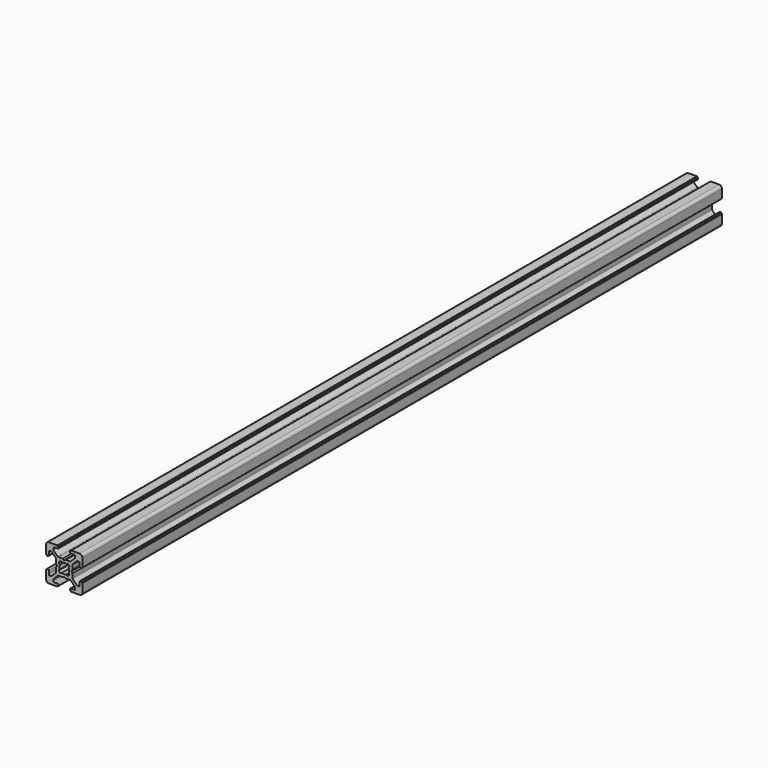
from build123d import *

# Parameters (mm, degrees)
F2_DEPTH = 440


with BuildPart() as f2:
    # F1 (on Front) → F2 (new body)
    with BuildSketch(Plane.XZ):
        with BuildLine():
            ThreePointArc((10, 8.5), (9.5606601718, 9.5606601718), (8.5, 10))
            Line((8.5, 10), (3.8500002275, 10))
            ThreePointArc((3.8500002275, 10), (3.7085788712, 9.9414213562), (3.6500002275, 9.8))
            Line((3.6500002275, 9.8), (3.6500002275, 9.5))
            Line((3.6500002275, 9.5), (3.3, 9.5))
            ThreePointArc((3.3, 9.5), (3.1585786437, 9.4414213563), (3.1, 9.3))
            Line((3.1, 9.3), (3.1, 8.9999996734))
            ThreePointArc((3.1, 8.9999996734), (3.2464466094, 8.6464462828), (3.6, 8.4999996734))
            Line((3.6, 8.4999996734), (5.500000686, 8.4999996734))
            ThreePointArc((5.500000686, 8.4999996734), (5.8535540766, 8.353553064), (6.000000686, 7.9999996734))
            Line((6.000000686, 7.9999996734), (6.000000686, 7.2677666263))
            ThreePointArc((6.000000686, 7.2677666263), (5.9619404476, 7.0764248989), (5.8535540594, 6.9142132185))
            Line((5.8535540594, 6.9142132185), (3.5857872121, 4.6464465922))
            ThreePointArc((3.5857872121, 4.6464465922), (3.4235755436, 4.5380602291), (3.2322338387, 4.5))
            Line((3.2322338387, 4.5), (0.9535903118, 4.5))
            ThreePointArc((0.9535903118, 4.5), (0.9018265051, 4.4931851659), (0.853590316, 4.4732050832))
            Line((0.853590316, 4.4732050832), (0.1000000446, 4.0381195616))
            ThreePointArc((0.1000000446, 4.0381195616), (0, 4.0113246317), (-0.1000000446, 4.0381195616))
            Line((-0.1000000446, 4.0381195616), (-0.853590316, 4.4732050832))
            ThreePointArc((-0.853590316, 4.4732050832), (-0.9018265051, 4.4931851659), (-0.9535903118, 4.5))
            Line((-0.9535903118, 4.5), (-3.2322338387, 4.5))
            ThreePointArc((-3.2322338387, 4.5), (-3.4235755436, 4.5380602291), (-3.5857872121, 4.6464465922))
            Line((-3.5857872121, 4.6464465922), (-5.8535540594, 6.9142132185))
            ThreePointArc((-5.8535540594, 6.9142132185), (-5.9619404476, 7.0764248989), (-6.000000686, 7.2677666263))
            Line((-6.000000686, 7.2677666263), (-6.000000686, 7.9999996734))
            ThreePointArc((-6.000000686, 7.9999996734), (-5.8535540766, 8.353553064), (-5.500000686, 8.4999996734))
            Line((-5.500000686, 8.4999996734), (-3.6, 8.4999996734))
            ThreePointArc((-3.6, 8.4999996734), (-3.2464466094, 8.6464462828), (-3.1, 8.9999996734))
            Line((-3.1, 8.9999996734), (-3.1, 9.3))
            ThreePointArc((-3.1, 9.3), (-3.1585786438, 9.4414213562), (-3.3, 9.5))
            Line((-3.3, 9.5), (-3.6500002275, 9.5))
            Line((-3.6500002275, 9.5), (-3.6500002275, 9.8))
            ThreePointArc((-3.6500002275, 9.8), (-3.7085788713, 9.9414213562), (-3.8500002275, 10))
            Line((-3.8500002275, 10), (-8.5, 10))
            ThreePointArc((-8.5, 10), (-9.5606601718, 9.5606601718), (-10, 8.5))
            Line((-10, 8.5), (-10, 3.8499996046))
            ThreePointArc((-10, 3.8499996046), (-9.9414213562, 3.7085782484), (-9.8, 3.6499996046))
            Line((-9.8, 3.6499996046), (-9.499999732, 3.6499996046))
            Line((-9.499999732, 3.6499996046), (-9.499999732, 3.3))
            ThreePointArc((-9.499999732, 3.3), (-9.4414210882, 3.1585786438), (-9.299999732, 3.1))
            Line((-9.299999732, 3.1), (-8.999999732, 3.1))
            ThreePointArc((-8.999999732, 3.1), (-8.6464463414, 3.2464466094), (-8.499999732, 3.6))
            Line((-8.499999732, 3.6), (-8.499999732, 5.4999996046))
            ThreePointArc((-8.499999732, 5.4999996046), (-8.3535531226, 5.8535529952), (-7.999999732, 5.9999996046))
            Line((-7.999999732, 5.9999996046), (-7.267766685, 5.9999996046))
            ThreePointArc((-7.267766685, 5.9999996046), (-7.0764249688, 5.9619393709), (-6.9142132944, 5.8535529952))
            Line((-6.9142132944, 5.8535529952), (-4.6464463982, 3.5857860991))
            ThreePointArc((-4.6464463982, 3.5857860991), (-4.5380600225, 3.4235744247), (-4.4999997888, 3.2322327085))
            Line((-4.4999997888, 3.2322327085), (-4.4999997888, 0.9535893017))
            ThreePointArc((-4.4999997888, 0.9535893017), (-4.4931849534, 0.9018254903), (-4.4732048671, 0.8535892975))
            Line((-4.4732048671, 0.8535892975), (-4.038119841, 0.0999999691))
            ThreePointArc((-4.038119841, 0.0999999691), (-4.0113249288, 0), (-4.038119841, -0.0999999691))
            Line((-4.038119841, -0.0999999691), (-4.4732048671, -0.8535892975))
            ThreePointArc((-4.4732048671, -0.8535892975), (-4.4931849534, -0.9018254903), (-4.4999997888, -0.9535893017))
            Line((-4.4999997888, -0.9535893017), (-4.4999997888, -3.2322327085))
            ThreePointArc((-4.4999997888, -3.2322327085), (-4.5380600225, -3.4235744247), (-4.6464463982, -3.5857860991))
            Line((-4.6464463982, -3.5857860991), (-6.9142132944, -5.8535529952))
            ThreePointArc((-6.9142132944, -5.8535529952), (-7.0764249688, -5.9619393709), (-7.267766685, -5.9999996046))
            Line((-7.267766685, -5.9999996046), (-7.999999732, -5.9999996046))
            ThreePointArc((-7.999999732, -5.9999996046), (-8.3535531226, -5.8535529952), (-8.499999732, -5.4999996046))
            Line((-8.499999732, -5.4999996046), (-8.499999732, -3.6))
            ThreePointArc((-8.499999732, -3.6), (-8.6464463414, -3.2464466094), (-8.999999732, -3.1))
            Line((-8.999999732, -3.1), (-9.299999732, -3.1))
            ThreePointArc((-9.299999732, -3.1), (-9.4414210883, -3.1585786438), (-9.499999732, -3.3))
            Line((-9.499999732, -3.3), (-9.499999732, -3.6499996046))
            Line((-9.499999732, -3.6499996046), (-9.8, -3.6499996046))
            ThreePointArc((-9.8, -3.6499996046), (-9.9414213562, -3.7085782483), (-10, -3.8499996046))
            Line((-10, -3.8499996046), (-10, -8.5))
            ThreePointArc((-10, -8.5), (-9.5606601718, -9.5606601718), (-8.5, -10))
            Line((-8.5, -10), (-3.8500002275, -10))
            ThreePointArc((-3.8500002275, -10), (-3.7085788713, -9.9414213562), (-3.6500002275, -9.8))
            Line((-3.6500002275, -9.8), (-3.6500002275, -9.5))
            Line((-3.6500002275, -9.5), (-3.3, -9.5))
            ThreePointArc((-3.3, -9.5), (-3.1585786438, -9.4414213562), (-3.1, -9.3))
            Line((-3.1, -9.3), (-3.1, -8.9999996734))
            ThreePointArc((-3.1, -8.9999996734), (-3.2464466094, -8.6464462828), (-3.6, -8.4999996734))
            Line((-3.6, -8.4999996734), (-5.500000686, -8.4999996734))
            ThreePointArc((-5.500000686, -8.4999996734), (-5.8535540766, -8.353553064), (-6.000000686, -7.9999996734))
            Line((-6.000000686, -7.9999996734), (-6.000000686, -7.2677666263))
            ThreePointArc((-6.000000686, -7.2677666263), (-5.9619404476, -7.0764248989), (-5.8535540594, -6.9142132185))
            Line((-5.8535540594, -6.9142132185), (-3.5857872121, -4.6464465922))
            ThreePointArc((-3.5857872121, -4.6464465922), (-3.4235755436, -4.5380602291), (-3.2322338387, -4.5))
            Line((-3.2322338387, -4.5), (-0.9535903118, -4.5))
            ThreePointArc((-0.9535903118, -4.5), (-0.9018265051, -4.4931851659), (-0.853590316, -4.4732050832))
            Line((-0.853590316, -4.4732050832), (-0.1000000446, -4.0381195616))
            ThreePointArc((-0.1000000446, -4.0381195616), (0, -4.0113246317), (0.1000000446, -4.0381195616))
            Line((0.1000000446, -4.0381195616), (0.853590316, -4.4732050832))
            ThreePointArc((0.853590316, -4.4732050832), (0.9018265051, -4.4931851659), (0.9535903118, -4.5))
            Line((0.9535903118, -4.5), (3.2322338387, -4.5))
            ThreePointArc((3.2322338387, -4.5), (3.4235755437, -4.5380602291), (3.5857872121, -4.6464465922))
            Line((3.5857872121, -4.6464465922), (5.8535540594, -6.9142132185))
            ThreePointArc((5.8535540594, -6.9142132185), (5.9619404476, -7.0764248989), (6.000000686, -7.2677666263))
            Line((6.000000686, -7.2677666263), (6.000000686, -7.9999996734))
            ThreePointArc((6.000000686, -7.9999996734), (5.8535540766, -8.353553064), (5.500000686, -8.4999996734))
            Line((5.500000686, -8.4999996734), (3.6, -8.4999996734))
            ThreePointArc((3.6, -8.4999996734), (3.2464466094, -8.6464462828), (3.1, -8.9999996734))
            Line((3.1, -8.9999996734), (3.1, -9.3))
            ThreePointArc((3.1, -9.3), (3.1585786438, -9.4414213562), (3.3, -9.5))
            Line((3.3, -9.5), (3.6500002275, -9.5))
            Line((3.6500002275, -9.5), (3.6500002275, -9.8))
            ThreePointArc((3.6500002275, -9.8), (3.7085788713, -9.9414213562), (3.8500002275, -10))
            Line((3.8500002275, -10), (8.5, -10))
            ThreePointArc((8.5, -10), (9.5606601718, -9.5606601718), (10, -8.5))
            Line((10, -8.5), (10, -3.8499996046))
            ThreePointArc((10, -3.8499996046), (9.9414213563, -3.7085782483), (9.8, -3.6499996046))
            Line((9.8, -3.6499996046), (9.499999732, -3.6499996046))
            Line((9.499999732, -3.6499996046), (9.499999732, -3.3))
            ThreePointArc((9.499999732, -3.3), (9.4414210883, -3.1585786438), (9.299999732, -3.1))
            Line((9.299999732, -3.1), (8.999999732, -3.1))
            ThreePointArc((8.999999732, -3.1), (8.6464463414, -3.2464466094), (8.499999732, -3.6))
            Line((8.499999732, -3.6), (8.499999732, -5.4999996046))
            ThreePointArc((8.499999732, -5.4999996046), (8.3535531226, -5.8535529952), (7.999999732, -5.9999996046))
            Line((7.999999732, -5.9999996046), (7.267766685, -5.9999996046))
            ThreePointArc((7.267766685, -5.9999996046), (7.0764249688, -5.9619393709), (6.9142132944, -5.8535529952))
            Line((6.9142132944, -5.8535529952), (4.6464463982, -3.5857860991))
            ThreePointArc((4.6464463982, -3.5857860991), (4.5380600225, -3.4235744247), (4.4999997888, -3.2322327085))
            Line((4.4999997888, -3.2322327085), (4.4999997888, -0.9535893017))
            ThreePointArc((4.4999997888, -0.9535893017), (4.4931849534, -0.9018254903), (4.4732048671, -0.8535892975))
            Line((4.4732048671, -0.8535892975), (4.038119841, -0.0999999691))
            ThreePointArc((4.038119841, -0.0999999691), (4.0113249288, 0), (4.038119841, 0.0999999691))
            Line((4.038119841, 0.0999999691), (4.4732048671, 0.8535892975))
            ThreePointArc((4.4732048671, 0.8535892975), (4.4931849534, 0.9018254903), (4.4999997888, 0.9535893017))
            Line((4.4999997888, 0.9535893017), (4.4999997888, 3.2322327085))
            ThreePointArc((4.4999997888, 3.2322327085), (4.5380600225, 3.4235744247), (4.6464463982, 3.5857860991))
            Line((4.6464463982, 3.5857860991), (6.9142132944, 5.8535529952))
            ThreePointArc((6.9142132944, 5.8535529952), (7.0764249688, 5.9619393709), (7.267766685, 5.9999996046))
            Line((7.267766685, 5.9999996046), (7.999999732, 5.9999996046))
            ThreePointArc((7.999999732, 5.9999996046), (8.3535531226, 5.8535529952), (8.499999732, 5.4999996046))
            Line((8.499999732, 5.4999996046), (8.499999732, 3.6))
            ThreePointArc((8.499999732, 3.6), (8.6464463414, 3.2464466094), (8.999999732, 3.1))
            Line((8.999999732, 3.1), (9.299999732, 3.1))
            ThreePointArc((9.299999732, 3.1), (9.4414210883, 3.1585786438), (9.499999732, 3.3))
            Line((9.499999732, 3.3), (9.499999732, 3.6499996046))
            Line((9.499999732, 3.6499996046), (9.8, 3.6499996046))
            ThreePointArc((9.8, 3.6499996046), (9.9414213562, 3.7085782483), (10, 3.8499996046))
            Line((10, 3.8499996046), (10, 8.5))
        make_face()
        with BuildLine():
            Line((1.2581854361, 2.4452953622), (1.9138950195, 2.9896409624))
            ThreePointArc((1.9138950195, 2.9896409624), (2.5117372606, 2.5084104854), (2.9921749534, 1.9099309615))
            Line((2.9921749534, 1.9099309615), (2.4452954235, 1.258185317))
            ThreePointArc((2.4452954235, 1.258185317), (2.75, 0), (2.4452954235, -1.258185317))
            Line((2.4452954235, -1.258185317), (2.9921749534, -1.9099309615))
            ThreePointArc((2.9921749534, -1.9099309615), (2.5117372606, -2.5084104854), (1.9138950195, -2.9896409624))
            Line((1.9138950195, -2.9896409624), (1.2581854361, -2.4452953622))
            ThreePointArc((1.2581854361, -2.4452953622), (0, -2.75), (-1.2581854361, -2.4452953622))
            Line((-1.2581854362, -2.4452953622), (-1.9138950195, -2.9896409624))
            ThreePointArc((-1.9138950195, -2.9896409624), (-2.5117372606, -2.5084104854), (-2.9921749534, -1.9099309615))
            Line((-2.9921749534, -1.9099309615), (-2.4452954235, -1.258185317))
            ThreePointArc((-2.4452954235, -1.258185317), (-2.75, 0), (-2.4452954235, 1.258185317))
            Line((-2.4452954235, 1.258185317), (-2.9921749534, 1.9099309615))
            ThreePointArc((-2.9921749534, 1.9099309615), (-2.5117372606, 2.5084104854), (-1.9138950195, 2.9896409624))
            Line((-1.9138950195, 2.9896409624), (-1.2581854361, 2.4452953622))
            ThreePointArc((-1.2581854361, 2.4452953622), (0, 2.75), (1.2581854362, 2.4452953622))
        make_face(mode=Mode.SUBTRACT)
    extrude(amount=-F2_DEPTH)


solid = f2.part
